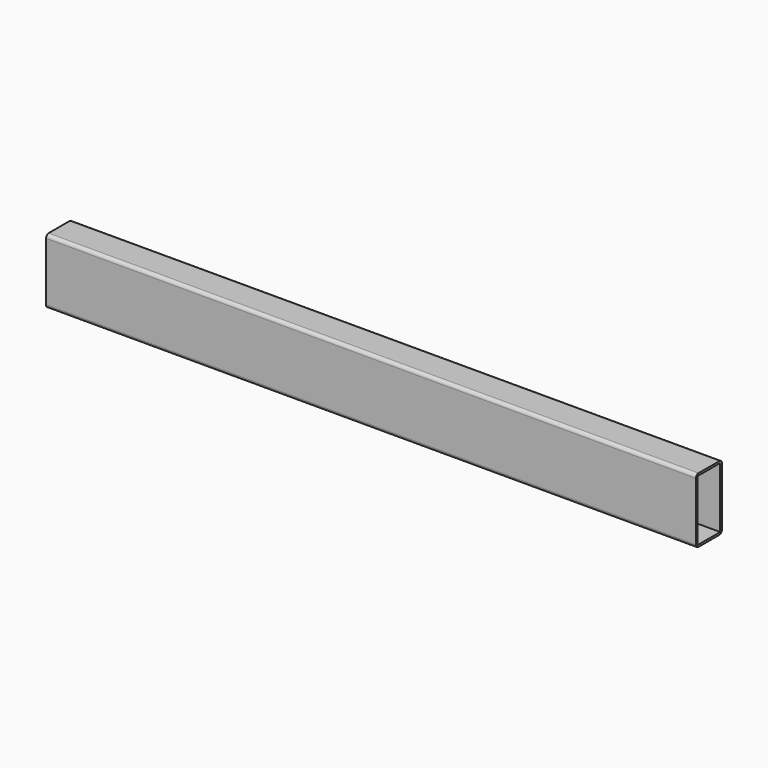
from build123d import *

# Parameters (mm, degrees)
F0_W     = 1000
F0_H     = 100
F1_DEPTH = 50
F2_W     = 43.5
F2_H     = 93.5
F3_DEPTH = 1000
F4_R     = 5


with BuildPart() as f1:
    # F0 (on Front) → F1 (new body)
    with BuildSketch(Plane.XZ):
        with Locations((-0.774916, 2.339742)):
            Rectangle(F0_W, F0_H)
    extrude(amount=F1_DEPTH)

    # F2 (on face) → F3 (cut, through all)
    with BuildSketch(Plane.YZ.offset(499.225084)):
        with Locations((-25, 2.339742)):
            Rectangle(F2_W, F2_H)
    extrude(amount=-F3_DEPTH, mode=Mode.SUBTRACT)

    # F4
    f4_edges = [f1.edges().sort_by_distance(p)[0] for p in [
        (-0.774916, -50, 52.339742),
        (-0.774916, 0, 52.339742),
        (-0.774916, -50, -47.660258),
        (-0.774916, 0, -47.660258),
    ]]
    fillet(f4_edges, radius=F4_R)


solid = f1.part
